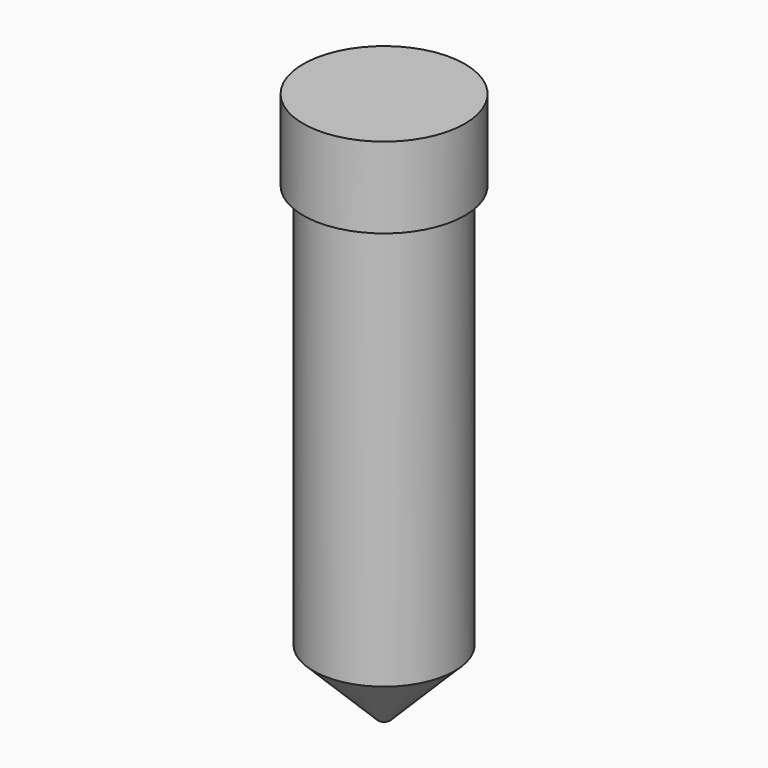
from build123d import *

# Parameters (mm, degrees)
F0_R     = 12.7
F1_DEPTH = 12.7
F2_R     = 11.1125
F3_DEPTH = 63.5
F4_R     = 11.1125
F5_DEPTH = 10.16
F5_TAPER = 45


with BuildPart() as f1:
    # F0 (on Top) → F1 (new body)
    with BuildSketch(Plane.XY):
        Circle(F0_R)
    extrude(amount=-F1_DEPTH)

    # F2 (on face) → F3 (join)
    with BuildSketch(Plane(origin=(0, 0, -12.7), x_dir=(1, 0, 0), z_dir=(0, 0, -1))):
        Circle(F2_R)
    extrude(amount=F3_DEPTH)

    # F4 (on face) → F5 (join)
    with BuildSketch(Plane(origin=(0, 0, -76.2), x_dir=(1, 0, 0), z_dir=(0, 0, -1))):
        Circle(F4_R)
    extrude(amount=F5_DEPTH, taper=F5_TAPER)


solid = f1.part
